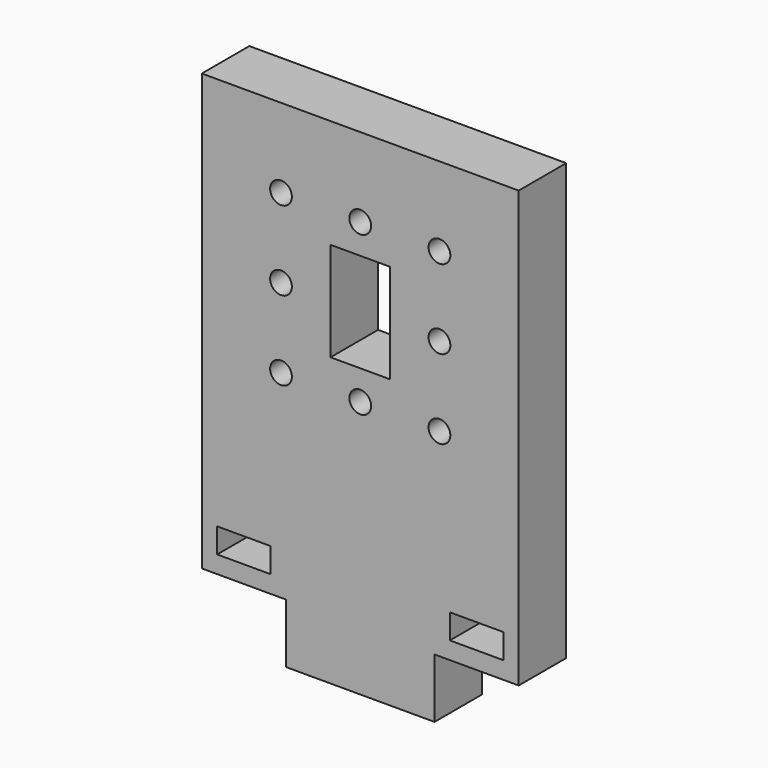
from build123d import *

# Parameters (mm, degrees)
PAD_DEPTH       = 6
SKETCH001_R     = 1.1
SKETCH001_W     = 6
SKETCH001_H     = 10
POCKET_DEPTH    = 125.332471
SKETCH002_W     = 5.4
SKETCH002_H     = 2.5
POCKET001_DEPTH = 125.332471


with BuildPart() as part:
    # Sketch → Pad (new body)
    with BuildSketch(Plane.XZ):
        Polygon((16, -22), (16, 22), (-16, 22), (-16, -22), (-7.5, -22), (-7.5, -28), (7.5, -28), (7.5, -22), align=None)
    extrude(amount=PAD_DEPTH)

    # Sketch001 (on Face10 of Pad) → Pocket (cut, through all)
    with BuildSketch(Plane.XZ.offset(6)):
        with Locations((0, 14)):
            Circle(SKETCH001_R)
        with Locations((-8, 6)):
            Circle(SKETCH001_R)
        with Locations((-8, 14)):
            Circle(SKETCH001_R)
        with Locations((-8, -2)):
            Circle(SKETCH001_R)
        with Locations((0, -2)):
            Circle(SKETCH001_R)
        with Locations((0, 6)):
            Rectangle(SKETCH001_W, SKETCH001_H)
    pocket = extrude(amount=-POCKET_DEPTH, mode=Mode.SUBTRACT)

    # Mirrored: Pocket across Sketch001 V_Axis
    add(pocket.mirror(Plane(origin=(0, -6, 0), x_dir=(0, -1, 0), z_dir=(1, 0, 0))), mode=Mode.SUBTRACT)

    # Sketch002 (on Face5 of Mirrored) → Pocket001 (cut, through all)
    with BuildSketch(Plane.XZ.offset(6)):
        with Locations((-11.75, -19)):
            Rectangle(SKETCH002_W, SKETCH002_H)
    pocket001 = extrude(amount=-POCKET001_DEPTH, mode=Mode.SUBTRACT)

    # Mirrored001: Pocket001 across Sketch002 V_Axis
    add(pocket001.mirror(Plane(origin=(0, -6, 0), x_dir=(0, -1, 0), z_dir=(1, 0, 0))), mode=Mode.SUBTRACT)


solid = part.part
